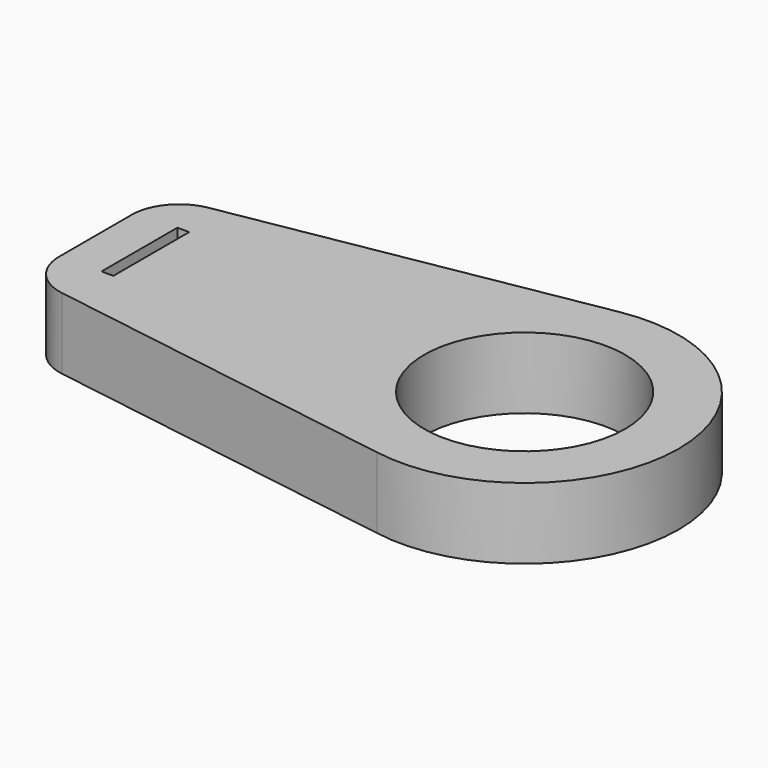
from build123d import *

# Parameters (mm, degrees)
F0_R     = 13.462
F1_DEPTH = 9.525


with BuildPart() as f1:
    # F0 (on Top) → F1 (new body)
    with BuildSketch(Plane.XY):
        with BuildLine():
            Line((-51.787601, -12.735296), (-3.543077, -20.331085))
            ThreePointArc((-3.543077, -20.331085), (20.6375, 0), (-3.543077, 20.331085))
            Line((-3.543077, 20.331085), (-51.890178, 11.905685))
            ThreePointArc((-51.890178, 11.905685), (-55.660305, 9.736523), (-57.15, 5.649967))
            Line((-57.15, 5.649967), (-57.15, -6.462565))
            ThreePointArc((-57.15, -6.462565), (-55.626684, -10.588776), (-51.787601, -12.735296))
        make_face()
        Polygon((-50.00625, 6.35), (-50.00625, 0), (-50.00625, -6.35), (-51.59375, -6.35), (-51.59375, 0), (-51.59375, 6.35), align=None, mode=Mode.SUBTRACT)
        Circle(F0_R, mode=Mode.SUBTRACT)
    extrude(amount=F1_DEPTH)


solid = f1.part
